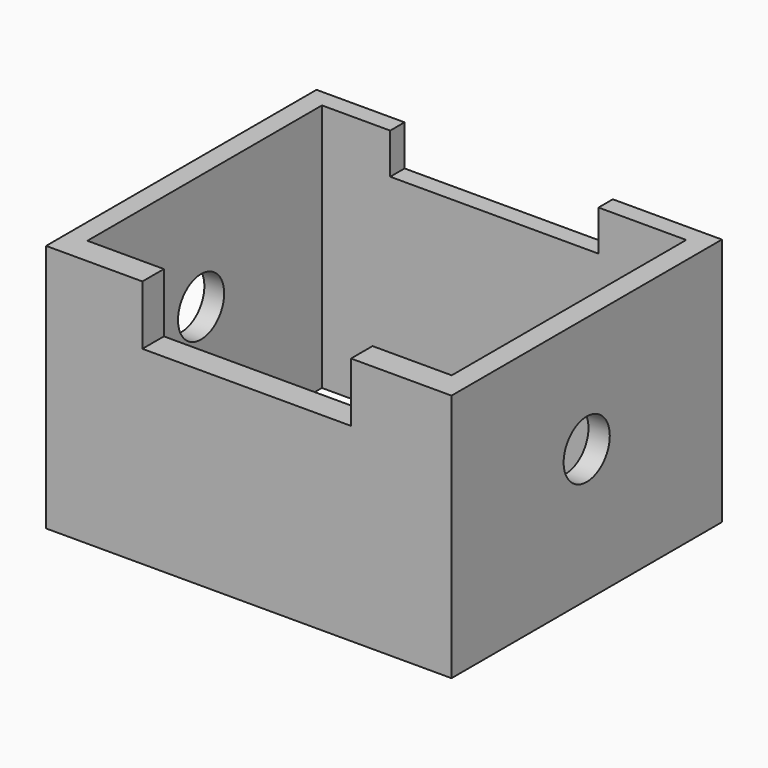
from build123d import *

# Parameters (mm, degrees)
F0_W     = 149.0205824375
F0_H     = 124.2497935891
F1_DEPTH = 91.44
F2_W     = 133.9053437114
F2_H     = 107.7639774892
F3_DEPTH = 91.441
F4_W     = 76.6777545214
F4_H     = 21.7983949804
F5_DEPTH = 25.4
F6_W     = 76.5557736158
F6_H     = 14.9245489264
F7_DEPTH = 25.4
F8_R     = 10.6028855258
F9_DEPTH = 149.0215824375


with BuildPart() as f1:
    # F0 (on Top) → F1 (new body)
    with BuildSketch(Plane.XY):
        Rectangle(F0_W, F0_H)
    extrude(amount=F1_DEPTH)

    # F2 (on face) → F3 (cut, through all)
    with BuildSketch(Plane.XY.offset(91.44)):
        with Locations((-0.2857260406, 1.6505084932)):
            Rectangle(F2_W, F2_H)
    extrude(amount=-F3_DEPTH, mode=Mode.SUBTRACT)

    # F4 (on face) → F5 (cut)
    with BuildSketch(Plane.XZ.offset(62.1248967946)):
        with Locations((-0.7736906409, 80.5408025098)):
            Rectangle(F4_W, F4_H)
        with Locations((-0.7736906409, 80.5408025098)):
            Rectangle(F4_W, F4_H)
    extrude(amount=-F5_DEPTH, mode=Mode.SUBTRACT)

    # F6 (on face) → F7 (cut)
    with BuildSketch(Plane(origin=(0, 62.1248967946, 0), x_dir=(-1, 0, 0), z_dir=(0, 1, 0))):
        with Locations((3.8653835654, 83.9777255368)):
            Rectangle(F6_W, F6_H)
    extrude(amount=-F7_DEPTH, mode=Mode.SUBTRACT)

    # F8 (on face) → F9 (cut, through all)
    with BuildSketch(Plane.YZ.offset(74.5102912188)):
        with Locations((0, 48.8554276526)):
            Circle(F8_R)
    extrude(amount=-F9_DEPTH, mode=Mode.SUBTRACT)


solid = f1.part
